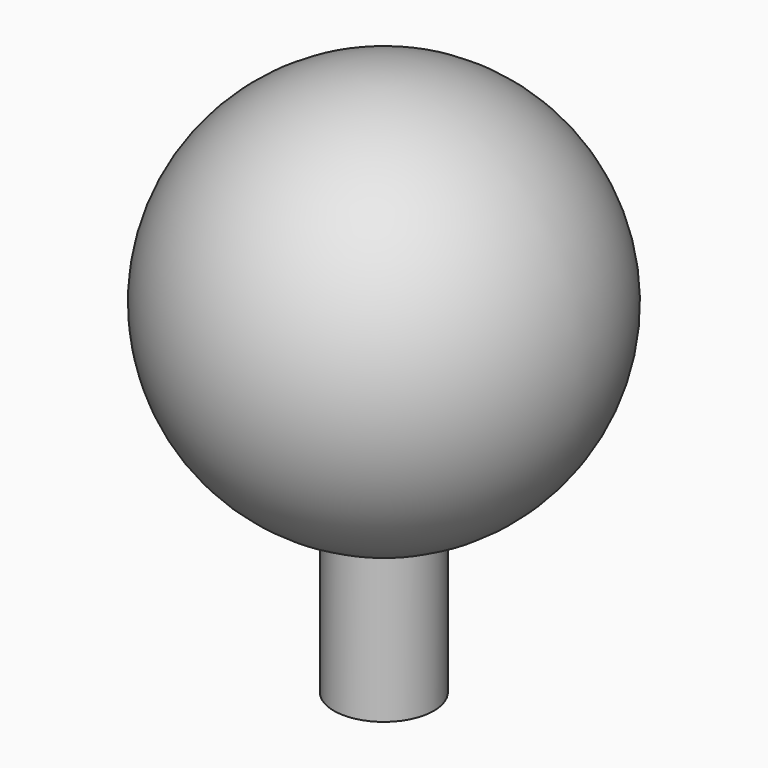
from build123d import *


with BuildPart() as f1:
    # F0 (on Front) → F1 (revolve)
    with BuildSketch(Plane.XZ):
        with BuildLine():
            ThreePointArc((5, -39.364917), (19.840594, -17.479914), (0, 0))
            Line((0, 0), (0, -40))
            ThreePointArc((0, -40), (2.520086, -39.840594), (5, -39.364917))
        make_face()
        with BuildLine():
            Line((5, -54.364917), (5, -39.364917))
            ThreePointArc((5, -39.364917), (2.520086, -39.840594), (0, -40))
            Line((0, -40), (0, -54.364917))
            Line((0, -54.364917), (5, -54.364917))
        make_face()
    revolve(axis=Axis((0, 0, -20), (0, 0, 1)))


solid = f1.part
